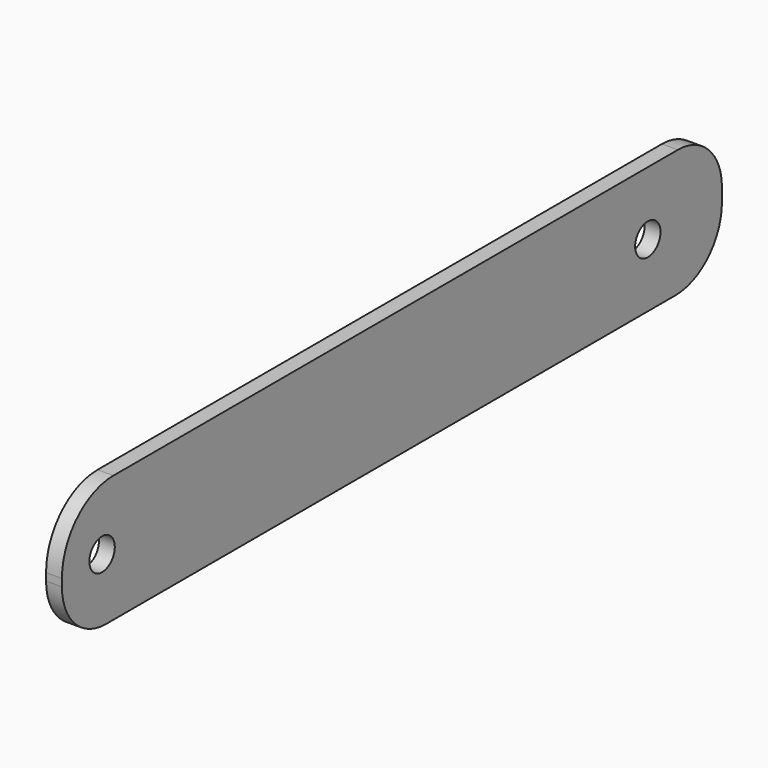
from build123d import *

# Parameters (mm, degrees)
F0_W     = 165.1
F0_H     = 25.4
F1_DEPTH = 3.175
F2_R     = 12.877415
F3_R     = 11.037784
F4_R     = 11.037784
F5_R     = 11.650995
F7_D     = 6.35


with BuildPart() as f1:
    # F0 (on Right) → F1 (new body)
    with BuildSketch(Plane.YZ):
        Rectangle(F0_W, F0_H)
    extrude(amount=F1_DEPTH)

    # F2
    f2_edges = [f1.edges().sort_by_distance(p)[0] for p in [
        (1.5875, -82.55, 12.7),
    ]]
    fillet(f2_edges, radius=F2_R)

    # F3
    f3_edges = [f1.edges().sort_by_distance(p)[0] for p in [
        (1.5875, -82.55, -12.7),
    ]]
    fillet(f3_edges, radius=F3_R)

    # F4
    f4_edges = [f1.edges().sort_by_distance(p)[0] for p in [
        (1.5875, 82.55, 12.7),
    ]]
    fillet(f4_edges, radius=F4_R)

    # F5
    f5_edges = [f1.edges().sort_by_distance(p)[0] for p in [
        (1.5875, 82.55, -12.7),
    ]]
    fillet(f5_edges, radius=F5_R)

    # F7 (through all)
    with Locations(Plane.YZ.offset(3.175)):
        with Locations((-72.509001, 0), (64.015999, 0)):
            Hole(F7_D / 2)


solid = f1.part
